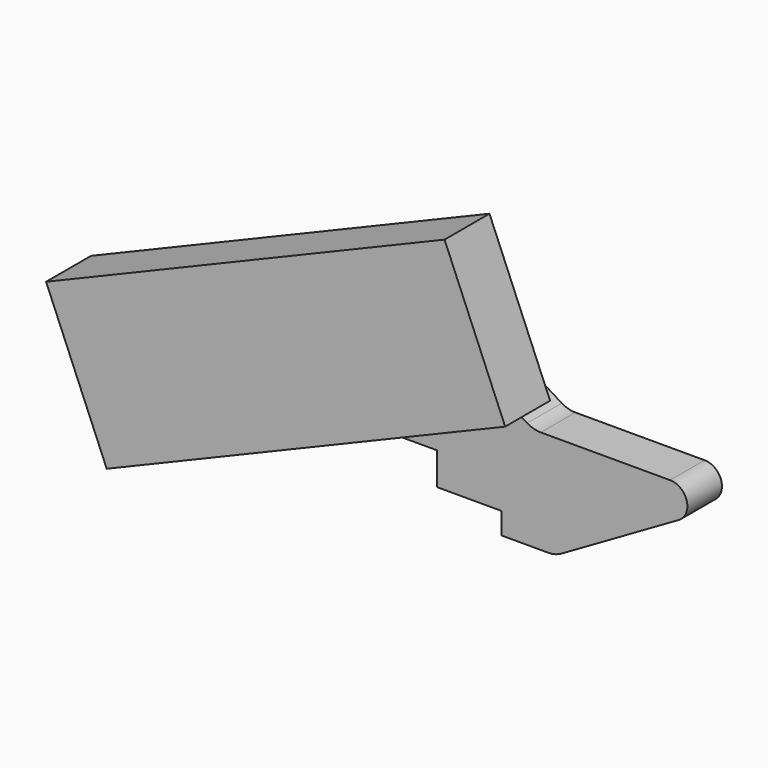
from build123d import *

# Parameters (mm, degrees)
SKETCH001_W             = 26
SKETCH001_H             = 72.734398
PAD001_DEPTH            = 100
BODY001_PLACEMENT_ANGLE = 22.7
SKETCH009_R             = 12.5
PAD005_DEPTH            = 2
SKETCH010_R             = 10
PAD006_DEPTH            = 21
SKETCH011_R             = 2.25
POCKET_DEPTH            = 23
POCKET001_DEPTH         = 11
PAD_DEPTH               = 125
BODY_PLACEMENT_ANGLE    = 29
PAD004_DEPTH            = 20
SKETCH013_R             = 10
POCKET002_DEPTH         = 11


with BuildPart() as obj1:
    # Sketch001 → Pad001 (new body, symmetric)
    with BuildSketch(Plane.YZ):
        with Locations((13, 36.367199)):
            Rectangle(SKETCH001_W, SKETCH001_H)
    extrude(amount=PAD001_DEPTH, both=True)


with BuildPart() as obj1_1:
    # Body001 placement: moved
    add(obj1.part.rotate(Axis((0, 0, 0), (0, -1, 0)), BODY001_PLACEMENT_ANGLE))


with BuildPart() as base:
    # Sketch009 → Pad005 (new body)
    with BuildSketch(Plane(origin=(0, 26, 0), x_dir=(1, 0, 0), z_dir=(0, 1, 0))):
        with Locations((-10.146176, -18.266483)):
            Circle(SKETCH009_R)
    extrude(amount=PAD005_DEPTH)

    # Sketch010 (on Face3 of Pad005) → Pad006 (join)
    with BuildSketch(Plane(origin=(0, 28, 0), x_dir=(1, 0, 0), z_dir=(0, 1, 0))):
        with Locations((-10.146176, -18.266483)):
            Circle(SKETCH010_R)
    extrude(amount=PAD006_DEPTH)

    # Sketch011 (on Face5 of Pad006) → Pocket (cut)
    with BuildSketch(Plane(origin=(0, 49, 0), x_dir=(1, 0, 0), z_dir=(0, 1, 0))):
        with Locations((-10.146176, -18.266483)):
            Circle(SKETCH011_R)
    extrude(amount=-POCKET_DEPTH, mode=Mode.SUBTRACT)

    # Sketch012 (on Face6 of Pocket) → Pocket001 (cut)
    with BuildSketch(Plane(origin=(0, 49, 0), x_dir=(1, 0, 0), z_dir=(0, 1, 0))):
        with BuildLine():
            ThreePointArc((-14.133076, -27.437341), (-4.662974, -26.629168), (-0.146176, -18.266483))
            Line((-10.146176, -18.266483), (-0.146176, -18.266483))
            Line((-10.146176, -18.266483), (-14.133076, -27.437341))
        make_face()
    extrude(amount=-POCKET001_DEPTH, mode=Mode.SUBTRACT)


with BuildPart() as obj2:
    # Sketch → Pad (new body, symmetric)
    with BuildSketch(Plane.XZ):
        Polygon((0, 0), (20, 0), (20, -15), (46, -15), (46, -51.878532), (0, -51.878532), align=None)
    extrude(amount=PAD_DEPTH, both=True)


with BuildPart() as obj2_1:
    # Body placement: moved
    add(obj2.part.rotate(Axis((0, 0, 0), (0, 0, -1)), BODY_PLACEMENT_ANGLE))


with BuildPart() as cut:
    # Sketch006 → Pad004 (new body)
    with BuildSketch(Plane(origin=(0, 28, 0), x_dir=(-1, 0, 0), z_dir=(0, 1, 0))):
        with BuildLine():
            Line((-95.853824, -23.392305), (-150.226891, 8))
            ThreePointArc((-146.226891, 22.928203), (-153.954298, 16.998756), (-150.226891, 8))
            Line((-146.226891, 22.928203), (-86.331421, 22.928203))
            ThreePointArc((-86.331421, 22.928203), (-83.07223, 23.379278), (-80.058062, 24.698591))
            Line((-80.058062, 24.698591), (-63.647288, 34.762578))
            ThreePointArc((-57.373929, 36.532966), (-60.63312, 36.081891), (-63.647288, 34.762578))
            Line((10.146176, 36.532966), (-57.373929, 36.532966))
            ThreePointArc((10.146176, 0), (28.412659, 18.266483), (10.146176, 36.532966))
            Line((-34.853824, 0), (10.146176, 0))
            Line((-34.853824, -25), (-34.853824, 0))
            Line((-89.853824, -25), (-34.853824, -25))
            ThreePointArc((-95.853824, -23.392305), (-92.959653, -24.59111), (-89.853824, -25))
        make_face()
        with BuildLine():
            ThreePointArc((0.146176, 18.266483), (19.384971, 14.439649), (3.075108, 25.337551))
            Line((8.584502, 19.828157), (3.075108, 25.337551))
            ThreePointArc((8.584502, 19.828157), (8.105937, 19.112104), (7.937636, 18.267455))
            Line((0.146176, 18.266483), (7.937636, 18.267455))
        make_face(mode=Mode.SUBTRACT)
    extrude(amount=PAD004_DEPTH)

    # Sketch013 (on Face17 of Pad004) → Pocket002 (cut)
    with BuildSketch(Plane.XZ.offset(-28)):
        with Locations((-10.146176, 18.266483)):
            Circle(SKETCH013_R)
    extrude(amount=-POCKET002_DEPTH, mode=Mode.SUBTRACT)

    # Cut: cut obj2
    add(obj2_1.part, mode=Mode.SUBTRACT)


solid = Compound([obj1_1.part, base.part, cut.part])
